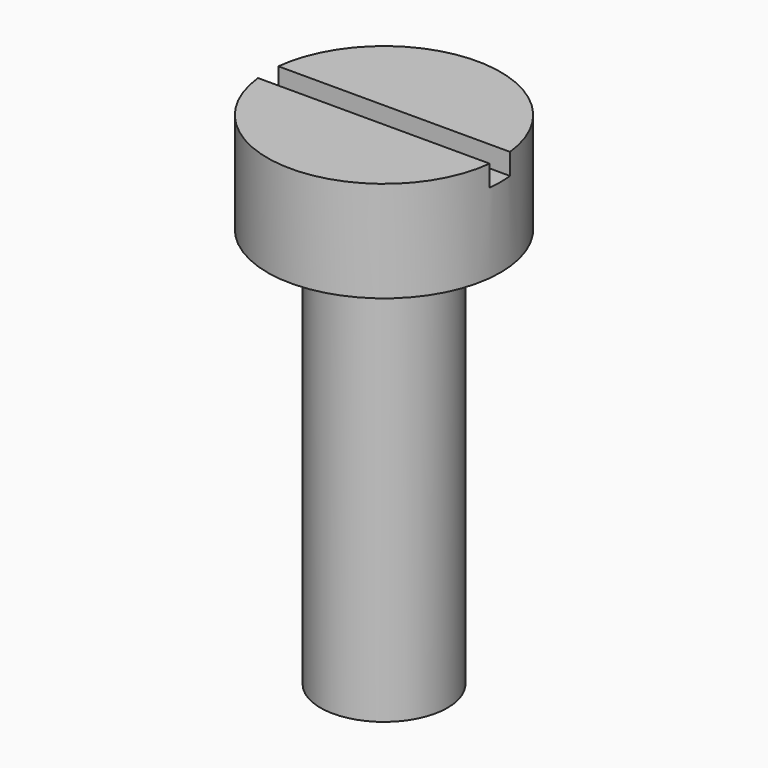
from build123d import *

# Parameters (mm, degrees)
SKETCH001_W  = 5.867174
SKETCH001_H  = 0.6
POCKET_DEPTH = 0.5


with BuildPart() as part:
    # Sketch → Revolution (revolve)
    with BuildSketch(Plane.XZ):
        Polygon((0, 0), (1.5, 0), (1.5, 9.45), (2.75, 9.45), (2.75, 11.83), (0, 11.83), align=None)
    revolve(axis=Axis((0, 0, 0), (0, 0, 1)))

    # Sketch001 → Pocket (cut)
    with BuildSketch(Plane(origin=(0, 0, 11.83), x_dir=(-1, 0, 0), z_dir=(0, 0, 1))):
        Rectangle(SKETCH001_W, SKETCH001_H)
    extrude(amount=-POCKET_DEPTH, mode=Mode.SUBTRACT)


solid = part.part
